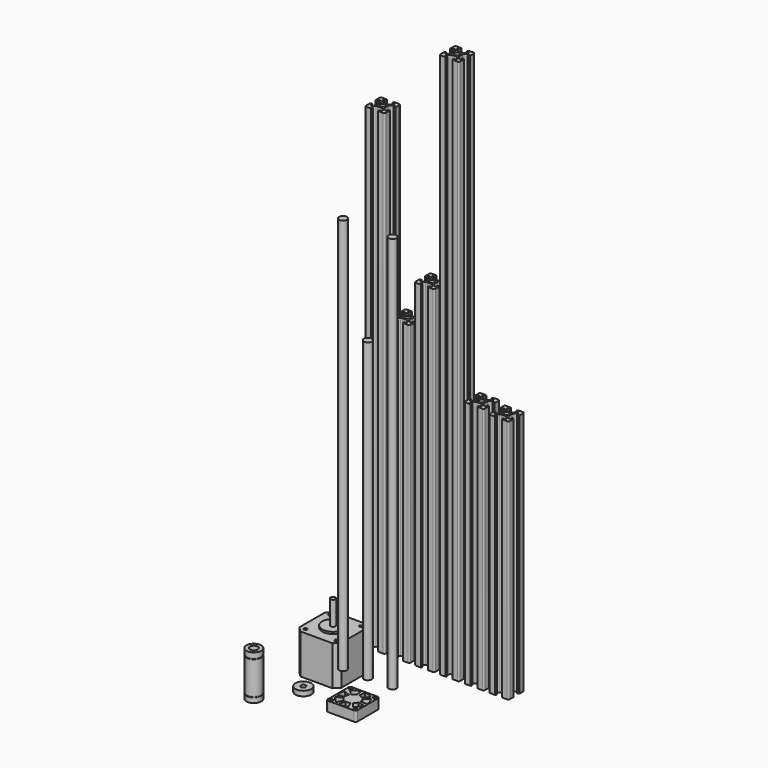
from build123d import *

# Parameters (mm, degrees)
F3_R      = 2.5
F4_DEPTH  = 480
F5_DEPTH  = 300
F6_DEPTH  = 340
F7_DEPTH  = 550
F8_R      = 4
F9_DEPTH  = 400
F10_DEPTH = 300
F11_DEPTH = 400
F12_R     = 8
F12_R_2   = 2.5
F13_DEPTH = 5
F12_R_3   = 1.5
F14_DEPTH = 10
F15_DEPTH = 250
F16_DEPTH = 247
F12_R_4   = 7.5
F12_R_5   = 7.15
F12_R_6   = 4
F17_DEPTH = 22.5
F18_DEPTH = 17.5
F19_DEPTH = 16.4
F20_W     = 42.3
F20_H     = 42.3
F20_R     = 1.5
F20_R_2   = 11
F20_R_3   = 2.5
F21_DEPTH = 40
F22_DEPTH = 2
F23_DEPTH = 26
F24_START = -4.5
F24_DEPTH = 35.5
F25_SIZE  = 5


with BuildPart() as f4:
    # F3 (on Top) → F4 (new body)
    with BuildSketch(Plane.XY):
        with BuildLine():
            Line((3.6, -10), (8.5, -10))
            ThreePointArc((8.5, -10), (9.5606601718, -9.5606601718), (10, -8.5))
            Line((10, -8.5), (10, -3.6))
            Line((10, -3.6), (9.7, -3.6))
            ThreePointArc((9.7, -3.6), (9.5585786438, -3.5414213562), (9.5, -3.4))
            Line((9.5, -3.4), (9.5, -3.1))
            Line((9.5, -3.1), (8.2, -3.1))
            Line((8.2, -3.1), (8.2, -5.5))
            Line((8.2, -5.5), (6.5606601718, -5.5))
            Line((6.5606601718, -5.5), (4.4857864376, -3.4251262658))
            ThreePointArc((4.4857864376, -3.4251262658), (4.052240935, -2.7762795682), (3.9, -2.0109127035))
            Line((3.9, -2.0109127035), (3.9, 2.0109127035))
            ThreePointArc((3.9, 2.0109127035), (4.052240935, 2.7762795682), (4.4857864376, 3.4251262658))
            Line((4.4857864376, 3.4251262658), (6.5606601718, 5.5))
            Line((6.5606601718, 5.5), (8.2, 5.5))
            Line((8.2, 5.5), (8.2, 3.1))
            Line((8.2, 3.1), (9.5, 3.1))
            Line((9.5, 3.1), (9.5, 3.4))
            ThreePointArc((9.5, 3.4), (9.5585786438, 3.5414213562), (9.7, 3.6))
            Line((9.7, 3.6), (10, 3.6))
            Line((10, 3.6), (10, 8.5))
            ThreePointArc((10, 8.5), (9.5606601718, 9.5606601718), (8.5, 10))
            Line((8.5, 10), (3.6, 10))
            Line((3.6, 10), (3.6, 9.7))
            ThreePointArc((3.6, 9.7), (3.5414213562, 9.5585786438), (3.4, 9.5))
            Line((3.4, 9.5), (3.1, 9.5))
            Line((3.1, 9.5), (3.1, 8.2))
            Line((3.1, 8.2), (5.5, 8.2))
            Line((5.5, 8.2), (5.5, 6.5606601718))
            Line((5.5, 6.5606601718), (3.4251262658, 4.4857864376))
            ThreePointArc((3.4251262658, 4.4857864376), (2.7762795682, 4.052240935), (2.0109127035, 3.9))
            Line((2.0109127035, 3.9), (-2.0109127035, 3.9))
            ThreePointArc((-2.0109127035, 3.9), (-2.7762795682, 4.052240935), (-3.4251262658, 4.4857864376))
            Line((-3.4251262658, 4.4857864376), (-5.5, 6.5606601718))
            Line((-5.5, 6.5606601718), (-5.5, 8.2))
            Line((-5.5, 8.2), (-3.1, 8.2))
            Line((-3.1, 8.2), (-3.1, 9.5))
            Line((-3.1, 9.5), (-3.4, 9.5))
            ThreePointArc((-3.4, 9.5), (-3.5414213562, 9.5585786438), (-3.6, 9.7))
            Line((-3.6, 9.7), (-3.6, 10))
            Line((-3.6, 10), (-8.5, 10))
            ThreePointArc((-8.5, 10), (-9.5606601718, 9.5606601718), (-10, 8.5))
            Line((-10, 8.5), (-10, 3.6))
            Line((-10, 3.6), (-9.7, 3.6))
            ThreePointArc((-9.7, 3.6), (-9.5585786438, 3.5414213562), (-9.5, 3.4))
            Line((-9.5, 3.4), (-9.5, 3.1))
            Line((-9.5, 3.1), (-8.2, 3.1))
            Line((-8.2, 3.1), (-8.2, 5.5))
            Line((-8.2, 5.5), (-6.5606601718, 5.5))
            Line((-6.5606601718, 5.5), (-4.4857864376, 3.4251262658))
            ThreePointArc((-4.4857864376, 3.4251262658), (-4.052240935, 2.7762795682), (-3.9, 2.0109127035))
            Line((-3.9, 2.0109127035), (-3.9, -2.0109127035))
            ThreePointArc((-3.9, -2.0109127035), (-4.052240935, -2.7762795682), (-4.4857864376, -3.4251262658))
            Line((-4.4857864376, -3.4251262658), (-6.5606601718, -5.5))
            Line((-6.5606601718, -5.5), (-8.2, -5.5))
            Line((-8.2, -5.5), (-8.2, -3.1))
            Line((-8.2, -3.1), (-9.5, -3.1))
            Line((-9.5, -3.1), (-9.5, -3.4))
            ThreePointArc((-9.5, -3.4), (-9.5585786438, -3.5414213562), (-9.7, -3.6))
            Line((-9.7, -3.6), (-10, -3.6))
            Line((-10, -3.6), (-10, -8.5))
            ThreePointArc((-10, -8.5), (-9.5606601718, -9.5606601718), (-8.5, -10))
            Line((-8.5, -10), (-3.6, -10))
            Line((-3.6, -10), (-3.6, -9.7))
            ThreePointArc((-3.6, -9.7), (-3.5414213562, -9.5585786438), (-3.4, -9.5))
            Line((-3.4, -9.5), (-3.1, -9.5))
            Line((-3.1, -9.5), (-3.1, -8.2))
            Line((-3.1, -8.2), (-5.5, -8.2))
            Line((-5.5, -8.2), (-5.5, -6.5606601718))
            Line((-5.5, -6.5606601718), (-3.4251262658, -4.4857864376))
            ThreePointArc((-3.4251262658, -4.4857864376), (-2.7762795682, -4.052240935), (-2.0109127035, -3.9))
            Line((-2.0109127035, -3.9), (2.0109127035, -3.9))
            ThreePointArc((2.0109127035, -3.9), (2.7762795682, -4.052240935), (3.4251262658, -4.4857864376))
            Line((3.4251262658, -4.4857864376), (5.5, -6.5606601718))
            Line((5.5, -6.5606601718), (5.5, -8.2))
            Line((5.5, -8.2), (3.1, -8.2))
            Line((3.1, -8.2), (3.1, -9.5))
            Line((3.1, -9.5), (3.4, -9.5))
            ThreePointArc((3.4, -9.5), (3.5414213562, -9.5585786438), (3.6, -9.7))
            Line((3.6, -9.7), (3.6, -10))
        make_face()
        Circle(F3_R, mode=Mode.SUBTRACT)
    extrude(amount=F4_DEPTH)


with BuildPart() as f5:
    # F3 (on Top) → F5 (new body)
    with BuildSketch(Plane.XY):
        with BuildLine():
            ThreePointArc((35, 8.5), (34.5606601718, 9.5606601718), (33.5, 10))
            Line((33.5, 10), (28.6, 10))
            Line((28.6, 10), (28.6, 9.7))
            ThreePointArc((28.6, 9.7), (28.5414213562, 9.5585786438), (28.4, 9.5))
            Line((28.4, 9.5), (28.1, 9.5))
            Line((28.1, 9.5), (28.1, 8.2))
            Line((28.1, 8.2), (30.5, 8.2))
            Line((30.5, 8.2), (30.5, 6.5606601718))
            Line((30.5, 6.5606601718), (28.4251262658, 4.4857864376))
            ThreePointArc((28.4251262658, 4.4857864376), (27.7762795682, 4.052240935), (27.0109127035, 3.9))
            Line((27.0109127035, 3.9), (22.9890872965, 3.9))
            ThreePointArc((22.9890872965, 3.9), (22.2237204318, 4.052240935), (21.5748737342, 4.4857864376))
            Line((21.5748737342, 4.4857864376), (19.5, 6.5606601718))
            Line((19.5, 6.5606601718), (19.5, 8.2))
            Line((19.5, 8.2), (21.9, 8.2))
            Line((21.9, 8.2), (21.9, 9.5))
            Line((21.9, 9.5), (21.6, 9.5))
            ThreePointArc((21.6, 9.5), (21.4585786438, 9.5585786438), (21.4, 9.7))
            Line((21.4, 9.7), (21.4, 10))
            Line((21.4, 10), (16.5, 10))
            ThreePointArc((16.5, 10), (15.4393398282, 9.5606601718), (15, 8.5))
            Line((15, 8.5), (15, 3.6))
            Line((15, 3.6), (15.3, 3.6))
            ThreePointArc((15.3, 3.6), (15.4414213562, 3.5414213562), (15.5, 3.4))
            Line((15.5, 3.4), (15.5, 3.1))
            Line((15.5, 3.1), (16.8, 3.1))
            Line((16.8, 3.1), (16.8, 5.5))
            Line((16.8, 5.5), (18.4393398282, 5.5))
            Line((18.4393398282, 5.5), (20.5142135624, 3.4251262658))
            ThreePointArc((20.5142135624, 3.4251262658), (20.947759065, 2.7762795682), (21.1, 2.0109127035))
            Line((21.1, 2.0109127035), (21.1, -2.0109127035))
            ThreePointArc((21.1, -2.0109127035), (20.947759065, -2.7762795682), (20.5142135624, -3.4251262658))
            Line((20.5142135624, -3.4251262658), (18.4393398282, -5.5))
            Line((18.4393398282, -5.5), (16.8, -5.5))
            Line((16.8, -5.5), (16.8, -3.1))
            Line((16.8, -3.1), (15.5, -3.1))
            Line((15.5, -3.1), (15.5, -3.4))
            ThreePointArc((15.5, -3.4), (15.4414213562, -3.5414213562), (15.3, -3.6))
            Line((15.3, -3.6), (15, -3.6))
            Line((15, -3.6), (15, -8.5))
            ThreePointArc((15, -8.5), (15.4393398282, -9.5606601718), (16.5, -10))
            Line((16.5, -10), (21.4, -10))
            Line((21.4, -10), (21.4, -9.7))
            ThreePointArc((21.4, -9.7), (21.4585786438, -9.5585786438), (21.6, -9.5))
            Line((21.6, -9.5), (21.9, -9.5))
            Line((21.9, -9.5), (21.9, -8.2))
            Line((21.9, -8.2), (19.5, -8.2))
            Line((19.5, -8.2), (19.5, -6.5606601718))
            Line((19.5, -6.5606601718), (21.5748737342, -4.4857864376))
            ThreePointArc((21.5748737342, -4.4857864376), (22.2237204318, -4.052240935), (22.9890872965, -3.9))
            Line((22.9890872965, -3.9), (27.0109127035, -3.9))
            ThreePointArc((27.0109127035, -3.9), (27.7762795682, -4.052240935), (28.4251262658, -4.4857864376))
            Line((28.4251262658, -4.4857864376), (30.5, -6.5606601718))
            Line((30.5, -6.5606601718), (30.5, -8.2))
            Line((30.5, -8.2), (28.1, -8.2))
            Line((28.1, -8.2), (28.1, -9.5))
            Line((28.1, -9.5), (28.4, -9.5))
            ThreePointArc((28.4, -9.5), (28.5414213562, -9.5585786438), (28.6, -9.7))
            Line((28.6, -9.7), (28.6, -10))
            Line((28.6, -10), (33.5, -10))
            ThreePointArc((33.5, -10), (34.5606601718, -9.5606601718), (35, -8.5))
            Line((35, -8.5), (35, -3.6))
            Line((35, -3.6), (34.7, -3.6))
            ThreePointArc((34.7, -3.6), (34.5585786438, -3.5414213562), (34.5, -3.4))
            Line((34.5, -3.4), (34.5, -3.1))
            Line((34.5, -3.1), (33.2, -3.1))
            Line((33.2, -3.1), (33.2, -5.5))
            Line((33.2, -5.5), (31.5606601718, -5.5))
            Line((31.5606601718, -5.5), (29.4857864376, -3.4251262658))
            ThreePointArc((29.4857864376, -3.4251262658), (29.052240935, -2.7762795682), (28.9, -2.0109127035))
            Line((28.9, -2.0109127035), (28.9, 2.0109127035))
            ThreePointArc((28.9, 2.0109127035), (29.052240935, 2.7762795682), (29.4857864376, 3.4251262658))
            Line((29.4857864376, 3.4251262658), (31.5606601718, 5.5))
            Line((31.5606601718, 5.5), (33.2, 5.5))
            Line((33.2, 5.5), (33.2, 3.1))
            Line((33.2, 3.1), (34.5, 3.1))
            Line((34.5, 3.1), (34.5, 3.4))
            ThreePointArc((34.5, 3.4), (34.5585786438, 3.5414213562), (34.7, 3.6))
            Line((34.7, 3.6), (35, 3.6))
            Line((35, 3.6), (35, 8.5))
        make_face()
        with Locations((25, 0)):
            Circle(F3_R, mode=Mode.SUBTRACT)
    extrude(amount=F5_DEPTH)


with BuildPart() as f6:
    # F3 (on Top) → F6 (new body)
    with BuildSketch(Plane.XY):
        with BuildLine():
            ThreePointArc((60, 8.5), (59.5606601718, 9.5606601718), (58.5, 10))
            Line((58.5, 10), (53.6, 10))
            Line((53.6, 10), (53.6, 9.7))
            ThreePointArc((53.6, 9.7), (53.5414213562, 9.5585786438), (53.4, 9.5))
            Line((53.4, 9.5), (53.1, 9.5))
            Line((53.1, 9.5), (53.1, 8.2))
            Line((53.1, 8.2), (55.5, 8.2))
            Line((55.5, 8.2), (55.5, 6.5606601718))
            Line((55.5, 6.5606601718), (53.4251262658, 4.4857864376))
            ThreePointArc((53.4251262658, 4.4857864376), (52.7762795682, 4.052240935), (52.0109127035, 3.9))
            Line((52.0109127035, 3.9), (47.9890872965, 3.9))
            ThreePointArc((47.9890872965, 3.9), (47.2237204318, 4.052240935), (46.5748737342, 4.4857864376))
            Line((46.5748737342, 4.4857864376), (44.5, 6.5606601718))
            Line((44.5, 6.5606601718), (44.5, 8.2))
            Line((44.5, 8.2), (46.9, 8.2))
            Line((46.9, 8.2), (46.9, 9.5))
            Line((46.9, 9.5), (46.6, 9.5))
            ThreePointArc((46.6, 9.5), (46.4585786438, 9.5585786438), (46.4, 9.7))
            Line((46.4, 9.7), (46.4, 10))
            Line((46.4, 10), (41.5, 10))
            ThreePointArc((41.5, 10), (40.4393398282, 9.5606601718), (40, 8.5))
            Line((40, 8.5), (40, 3.6))
            Line((40, 3.6), (40.3, 3.6))
            ThreePointArc((40.3, 3.6), (40.4414213562, 3.5414213562), (40.5, 3.4))
            Line((40.5, 3.4), (40.5, 3.1))
            Line((40.5, 3.1), (41.8, 3.1))
            Line((41.8, 3.1), (41.8, 5.5))
            Line((41.8, 5.5), (43.4393398282, 5.5))
            Line((43.4393398282, 5.5), (45.5142135624, 3.4251262658))
            ThreePointArc((45.5142135624, 3.4251262658), (45.947759065, 2.7762795682), (46.1, 2.0109127035))
            Line((46.1, 2.0109127035), (46.1, -2.0109127035))
            ThreePointArc((46.1, -2.0109127035), (45.947759065, -2.7762795682), (45.5142135624, -3.4251262658))
            Line((45.5142135624, -3.4251262658), (43.4393398282, -5.5))
            Line((43.4393398282, -5.5), (41.8, -5.5))
            Line((41.8, -5.5), (41.8, -3.1))
            Line((41.8, -3.1), (40.5, -3.1))
            Line((40.5, -3.1), (40.5, -3.4))
            ThreePointArc((40.5, -3.4), (40.4414213562, -3.5414213562), (40.3, -3.6))
            Line((40.3, -3.6), (40, -3.6))
            Line((40, -3.6), (40, -8.5))
            ThreePointArc((40, -8.5), (40.4393398282, -9.5606601718), (41.5, -10))
            Line((41.5, -10), (46.4, -10))
            Line((46.4, -10), (46.4, -9.7))
            ThreePointArc((46.4, -9.7), (46.4585786438, -9.5585786438), (46.6, -9.5))
            Line((46.6, -9.5), (46.9, -9.5))
            Line((46.9, -9.5), (46.9, -8.2))
            Line((46.9, -8.2), (44.5, -8.2))
            Line((44.5, -8.2), (44.5, -6.5606601718))
            Line((44.5, -6.5606601718), (46.5748737342, -4.4857864376))
            ThreePointArc((46.5748737342, -4.4857864376), (47.2237204318, -4.052240935), (47.9890872965, -3.9))
            Line((47.9890872965, -3.9), (52.0109127035, -3.9))
            ThreePointArc((52.0109127035, -3.9), (52.7762795682, -4.052240935), (53.4251262658, -4.4857864376))
            Line((53.4251262658, -4.4857864376), (55.5, -6.5606601718))
            Line((55.5, -6.5606601718), (55.5, -8.2))
            Line((55.5, -8.2), (53.1, -8.2))
            Line((53.1, -8.2), (53.1, -9.5))
            Line((53.1, -9.5), (53.4, -9.5))
            ThreePointArc((53.4, -9.5), (53.5414213562, -9.5585786438), (53.6, -9.7))
            Line((53.6, -9.7), (53.6, -10))
            Line((53.6, -10), (58.5, -10))
            ThreePointArc((58.5, -10), (59.5606601718, -9.5606601718), (60, -8.5))
            Line((60, -8.5), (60, -3.6))
            Line((60, -3.6), (59.7, -3.6))
            ThreePointArc((59.7, -3.6), (59.5585786438, -3.5414213562), (59.5, -3.4))
            Line((59.5, -3.4), (59.5, -3.1))
            Line((59.5, -3.1), (58.2, -3.1))
            Line((58.2, -3.1), (58.2, -5.5))
            Line((58.2, -5.5), (56.5606601718, -5.5))
            Line((56.5606601718, -5.5), (54.4857864376, -3.4251262658))
            ThreePointArc((54.4857864376, -3.4251262658), (54.052240935, -2.7762795682), (53.9, -2.0109127035))
            Line((53.9, -2.0109127035), (53.9, 2.0109127035))
            ThreePointArc((53.9, 2.0109127035), (54.052240935, 2.7762795682), (54.4857864376, 3.4251262658))
            Line((54.4857864376, 3.4251262658), (56.5606601718, 5.5))
            Line((56.5606601718, 5.5), (58.2, 5.5))
            Line((58.2, 5.5), (58.2, 3.1))
            Line((58.2, 3.1), (59.5, 3.1))
            Line((59.5, 3.1), (59.5, 3.4))
            ThreePointArc((59.5, 3.4), (59.5585786438, 3.5414213562), (59.7, 3.6))
            Line((59.7, 3.6), (60, 3.6))
            Line((60, 3.6), (60, 8.5))
        make_face()
        with Locations((50, 0)):
            Circle(F3_R, mode=Mode.SUBTRACT)
    extrude(amount=F6_DEPTH)


with BuildPart() as f7:
    # F3 (on Top) → F7 (new body)
    with BuildSketch(Plane.XY):
        with BuildLine():
            ThreePointArc((85, 8.5), (84.5606601718, 9.5606601718), (83.5, 10))
            Line((83.5, 10), (78.6, 10))
            Line((78.6, 10), (78.6, 9.7))
            ThreePointArc((78.6, 9.7), (78.5414213562, 9.5585786438), (78.4, 9.5))
            Line((78.4, 9.5), (78.1, 9.5))
            Line((78.1, 9.5), (78.1, 8.2))
            Line((78.1, 8.2), (80.5, 8.2))
            Line((80.5, 8.2), (80.5, 6.5606601718))
            Line((80.5, 6.5606601718), (78.4251262658, 4.4857864376))
            ThreePointArc((78.4251262658, 4.4857864376), (77.7762795682, 4.052240935), (77.0109127035, 3.9))
            Line((77.0109127035, 3.9), (72.9890872965, 3.9))
            ThreePointArc((72.9890872965, 3.9), (72.2237204318, 4.052240935), (71.5748737342, 4.4857864376))
            Line((71.5748737342, 4.4857864376), (69.5, 6.5606601718))
            Line((69.5, 6.5606601718), (69.5, 8.2))
            Line((69.5, 8.2), (71.9, 8.2))
            Line((71.9, 8.2), (71.9, 9.5))
            Line((71.9, 9.5), (71.6, 9.5))
            ThreePointArc((71.6, 9.5), (71.4585786438, 9.5585786438), (71.4, 9.7))
            Line((71.4, 9.7), (71.4, 10))
            Line((71.4, 10), (66.5, 10))
            ThreePointArc((66.5, 10), (65.4393398282, 9.5606601718), (65, 8.5))
            Line((65, 8.5), (65, 3.6))
            Line((65, 3.6), (65.3, 3.6))
            ThreePointArc((65.3, 3.6), (65.4414213562, 3.5414213562), (65.5, 3.4))
            Line((65.5, 3.4), (65.5, 3.1))
            Line((65.5, 3.1), (66.8, 3.1))
            Line((66.8, 3.1), (66.8, 5.5))
            Line((66.8, 5.5), (68.4393398282, 5.5))
            Line((68.4393398282, 5.5), (70.5142135624, 3.4251262658))
            ThreePointArc((70.5142135624, 3.4251262658), (70.947759065, 2.7762795682), (71.1, 2.0109127035))
            Line((71.1, 2.0109127035), (71.1, -2.0109127035))
            ThreePointArc((71.1, -2.0109127035), (70.947759065, -2.7762795682), (70.5142135624, -3.4251262658))
            Line((70.5142135624, -3.4251262658), (68.4393398282, -5.5))
            Line((68.4393398282, -5.5), (66.8, -5.5))
            Line((66.8, -5.5), (66.8, -3.1))
            Line((66.8, -3.1), (65.5, -3.1))
            Line((65.5, -3.1), (65.5, -3.4))
            ThreePointArc((65.5, -3.4), (65.4414213562, -3.5414213562), (65.3, -3.6))
            Line((65.3, -3.6), (65, -3.6))
            Line((65, -3.6), (65, -8.5))
            ThreePointArc((65, -8.5), (65.4393398282, -9.5606601718), (66.5, -10))
            Line((66.5, -10), (71.4, -10))
            Line((71.4, -10), (71.4, -9.7))
            ThreePointArc((71.4, -9.7), (71.4585786438, -9.5585786438), (71.6, -9.5))
            Line((71.6, -9.5), (71.9, -9.5))
            Line((71.9, -9.5), (71.9, -8.2))
            Line((71.9, -8.2), (69.5, -8.2))
            Line((69.5, -8.2), (69.5, -6.5606601718))
            Line((69.5, -6.5606601718), (71.5748737342, -4.4857864376))
            ThreePointArc((71.5748737342, -4.4857864376), (72.2237204318, -4.052240935), (72.9890872965, -3.9))
            Line((72.9890872965, -3.9), (77.0109127035, -3.9))
            ThreePointArc((77.0109127035, -3.9), (77.7762795682, -4.052240935), (78.4251262658, -4.4857864376))
            Line((78.4251262658, -4.4857864376), (80.5, -6.5606601718))
            Line((80.5, -6.5606601718), (80.5, -8.2))
            Line((80.5, -8.2), (78.1, -8.2))
            Line((78.1, -8.2), (78.1, -9.5))
            Line((78.1, -9.5), (78.4, -9.5))
            ThreePointArc((78.4, -9.5), (78.5414213562, -9.5585786438), (78.6, -9.7))
            Line((78.6, -9.7), (78.6, -10))
            Line((78.6, -10), (83.5, -10))
            ThreePointArc((83.5, -10), (84.5606601718, -9.5606601718), (85, -8.5))
            Line((85, -8.5), (85, -3.6))
            Line((85, -3.6), (84.7, -3.6))
            ThreePointArc((84.7, -3.6), (84.5585786438, -3.5414213562), (84.5, -3.4))
            Line((84.5, -3.4), (84.5, -3.1))
            Line((84.5, -3.1), (83.2, -3.1))
            Line((83.2, -3.1), (83.2, -5.5))
            Line((83.2, -5.5), (81.5606601718, -5.5))
            Line((81.5606601718, -5.5), (79.4857864376, -3.4251262658))
            ThreePointArc((79.4857864376, -3.4251262658), (79.052240935, -2.7762795682), (78.9, -2.0109127035))
            Line((78.9, -2.0109127035), (78.9, 2.0109127035))
            ThreePointArc((78.9, 2.0109127035), (79.052240935, 2.7762795682), (79.4857864376, 3.4251262658))
            Line((79.4857864376, 3.4251262658), (81.5606601718, 5.5))
            Line((81.5606601718, 5.5), (83.2, 5.5))
            Line((83.2, 5.5), (83.2, 3.1))
            Line((83.2, 3.1), (84.5, 3.1))
            Line((84.5, 3.1), (84.5, 3.4))
            ThreePointArc((84.5, 3.4), (84.5585786438, 3.5414213562), (84.7, 3.6))
            Line((84.7, 3.6), (85, 3.6))
            Line((85, 3.6), (85, 8.5))
        make_face()
        with Locations((75, 0)):
            Circle(F3_R, mode=Mode.SUBTRACT)
    extrude(amount=F7_DEPTH)


with BuildPart() as f9:
    # F8 (on Top) → F9 (new body)
    with BuildSketch(Plane.XY):
        with Locations((0, -50)):
            Circle(F8_R)
    extrude(amount=F9_DEPTH)


with BuildPart() as f10:
    # F8 (on Top) → F10 (new body)
    with BuildSketch(Plane.XY):
        with Locations((25, -50)):
            Circle(F8_R)
    extrude(amount=F10_DEPTH)


with BuildPart() as f11:
    # F8 (on Top) → F11 (new body)
    with BuildSketch(Plane.XY):
        with Locations((50, -50)):
            Circle(F8_R)
    extrude(amount=F11_DEPTH)


with BuildPart() as f13:
    # F12 (on Top) → F13 (new body)
    with BuildSketch(Plane.XY):
        with Locations((0, -100)):
            Circle(F12_R)
        with Locations((0, -100)):
            Circle(F12_R_2, mode=Mode.SUBTRACT)
    extrude(amount=F13_DEPTH)


with BuildPart() as f14:
    # F12 (on Top) → F14 (new body)
    with BuildSketch(Plane.XY):
        with BuildLine():
            Line((37, -115), (63, -115))
            ThreePointArc((63, -115), (64.4142135624, -114.4142135624), (65, -113))
            Line((65, -113), (65, -87))
            ThreePointArc((65, -87), (64.4142135624, -85.5857864376), (63, -85))
            Line((63, -85), (37, -85))
            ThreePointArc((37, -85), (35.5857864376, -85.5857864376), (35, -87))
            Line((35, -87), (35, -113))
            ThreePointArc((35, -113), (35.5857864376, -114.4142135624), (37, -115))
        make_face()
        with Locations((38, -112)):
            Circle(F12_R_3, mode=Mode.SUBTRACT)
        with Locations((62, -112)):
            Circle(F12_R_3, mode=Mode.SUBTRACT)
        with BuildLine():
            ThreePointArc((61.4655183617, -91.5380623556), (63.5359915901, -95.5458523068), (64.25, -100))
            ThreePointArc((64.25, -100), (64.1280892746, -101.8599982391), (63.7644430246, -103.6881713927))
            ThreePointArc((63.7644430246, -103.6881713927), (61.9219456086, -107.8057487089), (58.8847296765, -111.1410986252))
            ThreePointArc((58.8847296765, -111.1410986252), (57.3545144018, -112.2054749156), (55.6984613466, -113.0610121461))
            ThreePointArc((55.6984613466, -113.0610121461), (51.3304314205, -114.1877571249), (46.8290766911, -113.8927227486))
            ThreePointArc((46.8290766911, -113.8927227486), (45.0428401797, -113.3599800343), (43.3414220471, -112.5986443574))
            ThreePointArc((43.3414220471, -112.5986443574), (39.7370752369, -109.8860950484), (37.1611936324, -106.1828432824))
            ThreePointArc((37.1611936324, -106.1828432824), (36.4640084099, -104.4541476932), (35.9984277564, -102.6492404021))
            ThreePointArc((35.9984277564, -102.6492404021), (35.8719107254, -98.1400017609), (37.1611936324, -93.8171567176))
            ThreePointArc((37.1611936324, -93.8171567176), (38.0780543914, -92.1942512911), (39.1989029452, -90.7049043893))
            ThreePointArc((39.1989029452, -90.7049043893), (42.6454855982, -87.7945250844), (46.8290766911, -86.1072772514))
            ThreePointArc((46.8290766911, -86.1072772514), (48.6695685795, -85.8122428751), (50.5328245184, -85.7599649568))
            ThreePointArc((50.5328245184, -85.7599649568), (54.9571598203, -86.6400199657), (58.8847296765, -88.8589013748))
            ThreePointArc((58.8847296765, -88.8589013748), (60.2629247631, -90.1139049516), (61.4655183617, -91.5380623556))
        make_face(mode=Mode.SUBTRACT)
        with Locations((38, -88)):
            Circle(F12_R_3, mode=Mode.SUBTRACT)
        with Locations((62, -88)):
            Circle(F12_R_3, mode=Mode.SUBTRACT)
        with BuildLine():
            Line((50.2804339571, -92.5052447141), (50.5328245184, -85.7599649568))
            ThreePointArc((50.5328245184, -85.7599649568), (48.6695685795, -85.8122428751), (46.8290766911, -86.1072772514))
            Line((46.8290766911, -86.1072772514), (48.3310929953, -92.6880406586))
            ThreePointArc((48.3310929953, -92.6880406586), (49.2997729366, -92.5327594079), (50.2804339571, -92.5052447141))
        make_face()
        with BuildLine():
            Line((56.0344833483, -95.5463486082), (61.4655183617, -91.5380623556))
            ThreePointArc((61.4655183617, -91.5380623556), (60.2629247631, -90.1139049516), (58.8847296765, -88.8589013748))
            Line((58.8847296765, -88.8589013748), (54.6761735139, -94.1362638815))
            ThreePointArc((54.6761735139, -94.1362638815), (55.401539349, -94.7967920798), (56.0344833483, -95.5463486082))
        make_face()
        with BuildLine():
            ThreePointArc((63.7644430246, -103.6881713927), (64.1280892746, -101.8599982391), (64.25, -100))
            Line((64.25, -100), (57.5, -100))
            ThreePointArc((57.5, -100), (57.4358364603, -100.9789464417), (57.2444436972, -101.9411428383))
            Line((57.2444436972, -101.9411428383), (63.7644430246, -103.6881713927))
        make_face()
        with BuildLine():
            ThreePointArc((35.9984277564, -102.6492404021), (36.4640084099, -104.4541476932), (37.1611936324, -106.1828432824))
            Line((37.1611936324, -106.1828432824), (43.2427334907, -103.2541280434))
            ThreePointArc((43.2427334907, -103.2541280434), (42.8757939, -102.3442882596), (42.6307514508, -101.3943370537))
            Line((42.6307514508, -101.3943370537), (35.9984277564, -102.6492404021))
        make_face()
        with BuildLine():
            Line((44.3152120764, -95.1078444154), (39.1989029452, -90.7049043893))
            ThreePointArc((39.1989029452, -90.7049043893), (38.0780543914, -92.1942512911), (37.1611936324, -93.8171567176))
            Line((37.1611936324, -93.8171567176), (43.2427334907, -96.7458719566))
            ThreePointArc((43.2427334907, -96.7458719566), (43.725291785, -95.8917112059), (44.3152120764, -95.1078444154))
        make_face()
        with BuildLine():
            ThreePointArc((57.2444436972, -101.9411428383), (57.4358364603, -100.9789464417), (57.5, -100))
            ThreePointArc((57.5, -100), (57.1242061, -97.6557117404), (56.0344833483, -95.5463486082))
            ThreePointArc((56.0344833483, -95.5463486082), (55.401539349, -94.7967920798), (54.6761735139, -94.1362638815))
            ThreePointArc((54.6761735139, -94.1362638815), (52.6090314844, -92.9684315609), (50.2804339571, -92.5052447141))
            ThreePointArc((50.2804339571, -92.5052447141), (49.2997729366, -92.5327594079), (48.3310929953, -92.6880406586))
            ThreePointArc((48.3310929953, -92.6880406586), (46.1292029464, -93.5760658339), (44.3152120764, -95.1078444154))
            ThreePointArc((44.3152120764, -95.1078444154), (43.725291785, -95.8917112059), (43.2427334907, -96.7458719566))
            ThreePointArc((43.2427334907, -96.7458719566), (42.5641635397, -99.0210535583), (42.6307514508, -101.3943370537))
            ThreePointArc((42.6307514508, -101.3943370537), (42.8757939, -102.3442882596), (43.2427334907, -103.2541280434))
            ThreePointArc((43.2427334907, -103.2541280434), (44.598460651, -105.2032079202), (46.495485288, -106.6308654513))
            ThreePointArc((46.495485288, -106.6308654513), (47.3909685156, -107.0315684391), (48.3310929953, -107.3119593414))
            ThreePointArc((48.3310929953, -107.3119593414), (50.7002270634, -107.4672405921), (52.9991901824, -106.874216919))
            ThreePointArc((52.9991901824, -106.874216919), (53.8707970536, -106.4239341661), (54.6761735139, -105.8637361185))
            ThreePointArc((54.6761735139, -105.8637361185), (56.274708215, -104.1082887941), (57.2444436972, -101.9411428383))
        make_face()
        with BuildLine():
            ThreePointArc((43.3414220471, -112.5986443574), (45.0428401797, -113.3599800343), (46.8290766911, -113.8927227486))
            Line((46.8290766911, -113.8927227486), (48.3310929953, -107.3119593414))
            ThreePointArc((48.3310929953, -107.3119593414), (47.3909685156, -107.0315684391), (46.495485288, -106.6308654513))
            Line((46.495485288, -106.6308654513), (43.3414220471, -112.5986443574))
        make_face()
        with BuildLine():
            ThreePointArc((55.6984613466, -113.0610121461), (57.3545144018, -112.2054749156), (58.8847296765, -111.1410986252))
            Line((58.8847296765, -111.1410986252), (54.6761735139, -105.8637361185))
            ThreePointArc((54.6761735139, -105.8637361185), (53.8707970536, -106.4239341661), (52.9991901824, -106.874216919))
            Line((52.9991901824, -106.874216919), (55.6984613466, -113.0610121461))
        make_face()
    extrude(amount=F14_DEPTH)


with BuildPart() as f15:
    # F3 (on Top) → F15 (new body)
    with BuildSketch(Plane.XY):
        with BuildLine():
            ThreePointArc((110, 8.5), (109.5606601718, 9.5606601718), (108.5, 10))
            Line((108.5, 10), (103.6, 10))
            Line((103.6, 10), (103.6, 9.7))
            ThreePointArc((103.6, 9.7), (103.5414213562, 9.5585786438), (103.4, 9.5))
            Line((103.4, 9.5), (103.1, 9.5))
            Line((103.1, 9.5), (103.1, 8.2))
            Line((103.1, 8.2), (105.5, 8.2))
            Line((105.5, 8.2), (105.5, 6.5606601718))
            Line((105.5, 6.5606601718), (103.4251262658, 4.4857864376))
            ThreePointArc((103.4251262658, 4.4857864376), (102.7762795682, 4.052240935), (102.0109127035, 3.9))
            Line((102.0109127035, 3.9), (97.9890872965, 3.9))
            ThreePointArc((97.9890872965, 3.9), (97.2237204318, 4.052240935), (96.5748737342, 4.4857864376))
            Line((96.5748737342, 4.4857864376), (94.5, 6.5606601718))
            Line((94.5, 6.5606601718), (94.5, 8.2))
            Line((94.5, 8.2), (96.9, 8.2))
            Line((96.9, 8.2), (96.9, 9.5))
            Line((96.9, 9.5), (96.6, 9.5))
            ThreePointArc((96.6, 9.5), (96.4585786438, 9.5585786438), (96.4, 9.7))
            Line((96.4, 9.7), (96.4, 10))
            Line((96.4, 10), (91.5, 10))
            ThreePointArc((91.5, 10), (90.4393398282, 9.5606601718), (90, 8.5))
            Line((90, 8.5), (90, 3.6))
            Line((90, 3.6), (90.3, 3.6))
            ThreePointArc((90.3, 3.6), (90.4414213562, 3.5414213562), (90.5, 3.4))
            Line((90.5, 3.4), (90.5, 3.1))
            Line((90.5, 3.1), (91.8, 3.1))
            Line((91.8, 3.1), (91.8, 5.5))
            Line((91.8, 5.5), (93.4393398282, 5.5))
            Line((93.4393398282, 5.5), (95.5142135624, 3.4251262658))
            ThreePointArc((95.5142135624, 3.4251262658), (95.947759065, 2.7762795682), (96.1, 2.0109127035))
            Line((96.1, 2.0109127035), (96.1, -2.0109127035))
            ThreePointArc((96.1, -2.0109127035), (95.947759065, -2.7762795682), (95.5142135624, -3.4251262658))
            Line((95.5142135624, -3.4251262658), (93.4393398282, -5.5))
            Line((93.4393398282, -5.5), (91.8, -5.5))
            Line((91.8, -5.5), (91.8, -3.1))
            Line((91.8, -3.1), (90.5, -3.1))
            Line((90.5, -3.1), (90.5, -3.4))
            ThreePointArc((90.5, -3.4), (90.4414213562, -3.5414213562), (90.3, -3.6))
            Line((90.3, -3.6), (90, -3.6))
            Line((90, -3.6), (90, -8.5))
            ThreePointArc((90, -8.5), (90.4393398282, -9.5606601718), (91.5, -10))
            Line((91.5, -10), (96.4, -10))
            Line((96.4, -10), (96.4, -9.7))
            ThreePointArc((96.4, -9.7), (96.4585786438, -9.5585786438), (96.6, -9.5))
            Line((96.6, -9.5), (96.9, -9.5))
            Line((96.9, -9.5), (96.9, -8.2))
            Line((96.9, -8.2), (94.5, -8.2))
            Line((94.5, -8.2), (94.5, -6.5606601718))
            Line((94.5, -6.5606601718), (96.5748737342, -4.4857864376))
            ThreePointArc((96.5748737342, -4.4857864376), (97.2237204318, -4.052240935), (97.9890872965, -3.9))
            Line((97.9890872965, -3.9), (102.0109127035, -3.9))
            ThreePointArc((102.0109127035, -3.9), (102.7762795682, -4.052240935), (103.4251262658, -4.4857864376))
            Line((103.4251262658, -4.4857864376), (105.5, -6.5606601718))
            Line((105.5, -6.5606601718), (105.5, -8.2))
            Line((105.5, -8.2), (103.1, -8.2))
            Line((103.1, -8.2), (103.1, -9.5))
            Line((103.1, -9.5), (103.4, -9.5))
            ThreePointArc((103.4, -9.5), (103.5414213562, -9.5585786438), (103.6, -9.7))
            Line((103.6, -9.7), (103.6, -10))
            Line((103.6, -10), (108.5, -10))
            ThreePointArc((108.5, -10), (109.5606601718, -9.5606601718), (110, -8.5))
            Line((110, -8.5), (110, -3.6))
            Line((110, -3.6), (109.7, -3.6))
            ThreePointArc((109.7, -3.6), (109.5585786438, -3.5414213562), (109.5, -3.4))
            Line((109.5, -3.4), (109.5, -3.1))
            Line((109.5, -3.1), (108.2, -3.1))
            Line((108.2, -3.1), (108.2, -5.5))
            Line((108.2, -5.5), (106.5606601718, -5.5))
            Line((106.5606601718, -5.5), (104.4857864376, -3.4251262658))
            ThreePointArc((104.4857864376, -3.4251262658), (104.052240935, -2.7762795682), (103.9, -2.0109127035))
            Line((103.9, -2.0109127035), (103.9, 2.0109127035))
            ThreePointArc((103.9, 2.0109127035), (104.052240935, 2.7762795682), (104.4857864376, 3.4251262658))
            Line((104.4857864376, 3.4251262658), (106.5606601718, 5.5))
            Line((106.5606601718, 5.5), (108.2, 5.5))
            Line((108.2, 5.5), (108.2, 3.1))
            Line((108.2, 3.1), (109.5, 3.1))
            Line((109.5, 3.1), (109.5, 3.4))
            ThreePointArc((109.5, 3.4), (109.5585786438, 3.5414213562), (109.7, 3.6))
            Line((109.7, 3.6), (110, 3.6))
            Line((110, 3.6), (110, 8.5))
        make_face()
        with Locations((100, 0)):
            Circle(F3_R, mode=Mode.SUBTRACT)
    extrude(amount=F15_DEPTH)


with BuildPart() as f16:
    # F3 (on Top) → F16 (new body)
    with BuildSketch(Plane.XY):
        with BuildLine():
            ThreePointArc((135, 8.5), (134.5606601718, 9.5606601718), (133.5, 10))
            Line((133.5, 10), (128.6, 10))
            Line((128.6, 10), (128.6, 9.7))
            ThreePointArc((128.6, 9.7), (128.5414213562, 9.5585786438), (128.4, 9.5))
            Line((128.4, 9.5), (128.1, 9.5))
            Line((128.1, 9.5), (128.1, 8.2))
            Line((128.1, 8.2), (130.5, 8.2))
            Line((130.5, 8.2), (130.5, 6.5606601718))
            Line((130.5, 6.5606601718), (128.4251262658, 4.4857864376))
            ThreePointArc((128.4251262658, 4.4857864376), (127.7762795682, 4.052240935), (127.0109127035, 3.9))
            Line((127.0109127035, 3.9), (122.9890872965, 3.9))
            ThreePointArc((122.9890872965, 3.9), (122.2237204318, 4.052240935), (121.5748737342, 4.4857864376))
            Line((121.5748737342, 4.4857864376), (119.5, 6.5606601718))
            Line((119.5, 6.5606601718), (119.5, 8.2))
            Line((119.5, 8.2), (121.9, 8.2))
            Line((121.9, 8.2), (121.9, 9.5))
            Line((121.9, 9.5), (121.6, 9.5))
            ThreePointArc((121.6, 9.5), (121.4585786438, 9.5585786438), (121.4, 9.7))
            Line((121.4, 9.7), (121.4, 10))
            Line((121.4, 10), (116.5, 10))
            ThreePointArc((116.5, 10), (115.4393398282, 9.5606601718), (115, 8.5))
            Line((115, 8.5), (115, 3.6))
            Line((115, 3.6), (115.3, 3.6))
            ThreePointArc((115.3, 3.6), (115.4414213562, 3.5414213562), (115.5, 3.4))
            Line((115.5, 3.4), (115.5, 3.1))
            Line((115.5, 3.1), (116.8, 3.1))
            Line((116.8, 3.1), (116.8, 5.5))
            Line((116.8, 5.5), (118.4393398282, 5.5))
            Line((118.4393398282, 5.5), (120.5142135624, 3.4251262658))
            ThreePointArc((120.5142135624, 3.4251262658), (120.947759065, 2.7762795682), (121.1, 2.0109127035))
            Line((121.1, 2.0109127035), (121.1, -2.0109127035))
            ThreePointArc((121.1, -2.0109127035), (120.947759065, -2.7762795682), (120.5142135624, -3.4251262658))
            Line((120.5142135624, -3.4251262658), (118.4393398282, -5.5))
            Line((118.4393398282, -5.5), (116.8, -5.5))
            Line((116.8, -5.5), (116.8, -3.1))
            Line((116.8, -3.1), (115.5, -3.1))
            Line((115.5, -3.1), (115.5, -3.4))
            ThreePointArc((115.5, -3.4), (115.4414213562, -3.5414213562), (115.3, -3.6))
            Line((115.3, -3.6), (115, -3.6))
            Line((115, -3.6), (115, -8.5))
            ThreePointArc((115, -8.5), (115.4393398282, -9.5606601718), (116.5, -10))
            Line((116.5, -10), (121.4, -10))
            Line((121.4, -10), (121.4, -9.7))
            ThreePointArc((121.4, -9.7), (121.4585786438, -9.5585786438), (121.6, -9.5))
            Line((121.6, -9.5), (121.9, -9.5))
            Line((121.9, -9.5), (121.9, -8.2))
            Line((121.9, -8.2), (119.5, -8.2))
            Line((119.5, -8.2), (119.5, -6.5606601718))
            Line((119.5, -6.5606601718), (121.5748737342, -4.4857864376))
            ThreePointArc((121.5748737342, -4.4857864376), (122.2237204318, -4.052240935), (122.9890872965, -3.9))
            Line((122.9890872965, -3.9), (127.0109127035, -3.9))
            ThreePointArc((127.0109127035, -3.9), (127.7762795682, -4.052240935), (128.4251262658, -4.4857864376))
            Line((128.4251262658, -4.4857864376), (130.5, -6.5606601718))
            Line((130.5, -6.5606601718), (130.5, -8.2))
            Line((130.5, -8.2), (128.1, -8.2))
            Line((128.1, -8.2), (128.1, -9.5))
            Line((128.1, -9.5), (128.4, -9.5))
            ThreePointArc((128.4, -9.5), (128.5414213562, -9.5585786438), (128.6, -9.7))
            Line((128.6, -9.7), (128.6, -10))
            Line((128.6, -10), (133.5, -10))
            ThreePointArc((133.5, -10), (134.5606601718, -9.5606601718), (135, -8.5))
            Line((135, -8.5), (135, -3.6))
            Line((135, -3.6), (134.7, -3.6))
            ThreePointArc((134.7, -3.6), (134.5585786438, -3.5414213562), (134.5, -3.4))
            Line((134.5, -3.4), (134.5, -3.1))
            Line((134.5, -3.1), (133.2, -3.1))
            Line((133.2, -3.1), (133.2, -5.5))
            Line((133.2, -5.5), (131.5606601718, -5.5))
            Line((131.5606601718, -5.5), (129.4857864376, -3.4251262658))
            ThreePointArc((129.4857864376, -3.4251262658), (129.052240935, -2.7762795682), (128.9, -2.0109127035))
            Line((128.9, -2.0109127035), (128.9, 2.0109127035))
            ThreePointArc((128.9, 2.0109127035), (129.052240935, 2.7762795682), (129.4857864376, 3.4251262658))
            Line((129.4857864376, 3.4251262658), (131.5606601718, 5.5))
            Line((131.5606601718, 5.5), (133.2, 5.5))
            Line((133.2, 5.5), (133.2, 3.1))
            Line((133.2, 3.1), (134.5, 3.1))
            Line((134.5, 3.1), (134.5, 3.4))
            ThreePointArc((134.5, 3.4), (134.5585786438, 3.5414213562), (134.7, 3.6))
            Line((134.7, 3.6), (135, 3.6))
            Line((135, 3.6), (135, 8.5))
        make_face()
        with Locations((125, 0)):
            Circle(F3_R, mode=Mode.SUBTRACT)
    extrude(amount=F16_DEPTH)


with BuildPart() as f17:
    # F12 (on Top) → F17 (new body, symmetric)
    with BuildSketch(Plane.XY):
        with Locations((-50, -100)):
            Circle(F12_R_4)
        with Locations((-50, -100)):
            Circle(F12_R_5, mode=Mode.SUBTRACT)
        with Locations((-50, -100)):
            Circle(F12_R_5)
        with Locations((-50, -100)):
            Circle(F12_R_6, mode=Mode.SUBTRACT)
    extrude(amount=F17_DEPTH, both=True)

    # F12 (on Top) → F18 (cut, symmetric)
    with BuildSketch(Plane.XY):
        with Locations((-50, -100)):
            Circle(F12_R_4)
        with Locations((-50, -100)):
            Circle(F12_R_5, mode=Mode.SUBTRACT)
    extrude(amount=F18_DEPTH, both=True, mode=Mode.SUBTRACT)

    # F12 (on Top) → F19 (join, symmetric)
    with BuildSketch(Plane.XY):
        with Locations((-50, -100)):
            Circle(F12_R_4)
        with Locations((-50, -100)):
            Circle(F12_R_5, mode=Mode.SUBTRACT)
    extrude(amount=F19_DEPTH, both=True)


with BuildPart() as f21:
    # F20 (on Top) → F21 (new body)
    with BuildSketch(Plane.XY):
        with Locations((-50, 0)):
            Rectangle(F20_W, F20_H)
        with Locations((-65.5, -15.5)):
            Circle(F20_R, mode=Mode.SUBTRACT)
        with Locations((-34.5, -15.5)):
            Circle(F20_R, mode=Mode.SUBTRACT)
        with Locations((-65.5, 15.5)):
            Circle(F20_R, mode=Mode.SUBTRACT)
        with Locations((-50, 0)):
            Circle(F20_R_2, mode=Mode.SUBTRACT)
        with Locations((-34.5, 15.5)):
            Circle(F20_R, mode=Mode.SUBTRACT)
        with Locations((-50, 0)):
            Circle(F20_R_2)
        with Locations((-50, 0)):
            Circle(F20_R_3, mode=Mode.SUBTRACT)
        with Locations((-50, 0)):
            Circle(F20_R_3)
    extrude(amount=-F21_DEPTH)

    # F20 (on Top) → F22 (join)
    with BuildSketch(Plane.XY):
        with Locations((-50, 0)):
            Circle(F20_R_2)
        with Locations((-50, 0)):
            Circle(F20_R_3, mode=Mode.SUBTRACT)
    extrude(amount=F22_DEPTH)

    # F20 (on Top) → F23 (join)
    with BuildSketch(Plane.XY):
        with Locations((-50, 0)):
            Circle(F20_R_3)
    extrude(amount=F23_DEPTH)

    # F20 (on Top) → F24 (join)
    with BuildSketch(Plane.XY.offset(F24_START)):
        with Locations((-65.5, 15.5)):
            Circle(F20_R)
        with Locations((-34.5, 15.5)):
            Circle(F20_R)
        with Locations((-34.5, -15.5)):
            Circle(F20_R)
        with Locations((-65.5, -15.5)):
            Circle(F20_R)
    extrude(amount=-F24_DEPTH)

    # F25
    f25_edges = [f21.edges().sort_by_distance(p)[0] for p in [
        (-71.15, 21.15, -20),
        (-71.15, -21.15, -20),
        (-28.85, -21.15, -20),
        (-28.85, 21.15, -20),
    ]]
    chamfer(f25_edges, length=F25_SIZE)


solid = Compound([f4.part, f5.part, f6.part, f7.part, f9.part, f10.part, f11.part, f13.part, f14.part, f15.part, f16.part, f17.part, f21.part])
